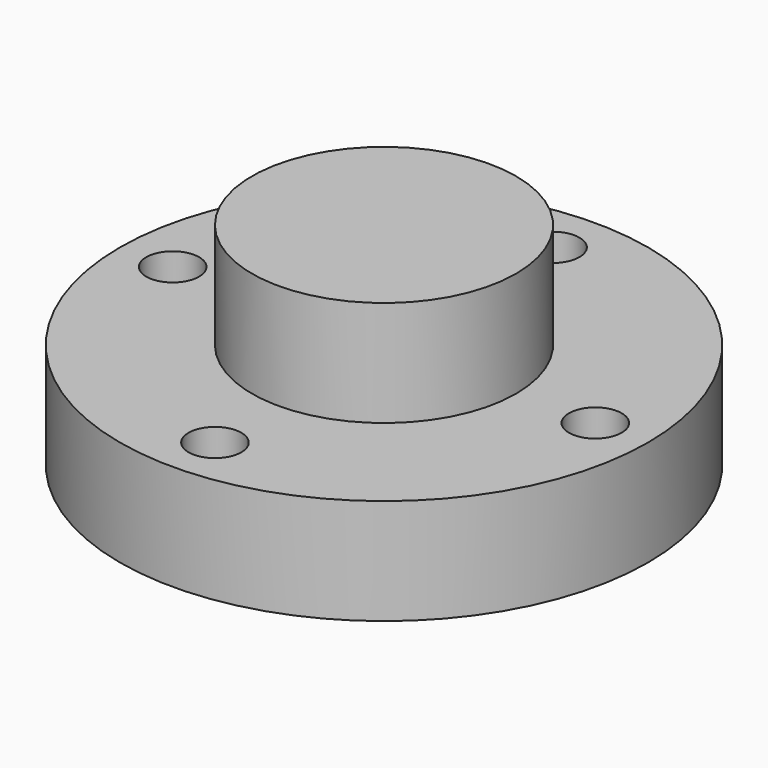
from build123d import *

# Parameters (mm, degrees)
F0_R     = 31.75
F1_DEPTH = 12.7
F2_R     = 15.875
F3_DEPTH = 12.7
F4_R     = 3.175
F5_DEPTH = 12.701


with BuildPart() as f1:
    # F0 (on Top) → F1 (new body)
    with BuildSketch(Plane.XY):
        Circle(F0_R)
    extrude(amount=F1_DEPTH)

    # F2 (on face) → F3 (join)
    with BuildSketch(Plane.XY.offset(12.7)):
        Circle(F2_R)
    extrude(amount=F3_DEPTH)

    # F4 (on face) → F5 (cut, through all)
    with BuildSketch(Plane.XY.offset(12.7)):
        with Locations((25.4, 0)):
            Circle(F4_R)
        with Locations((0, 25.4)):
            Circle(F4_R)
        with Locations((-25.4, 0)):
            Circle(F4_R)
        with Locations((0, -25.4)):
            Circle(F4_R)
    extrude(amount=-F5_DEPTH, mode=Mode.SUBTRACT)


solid = f1.part
